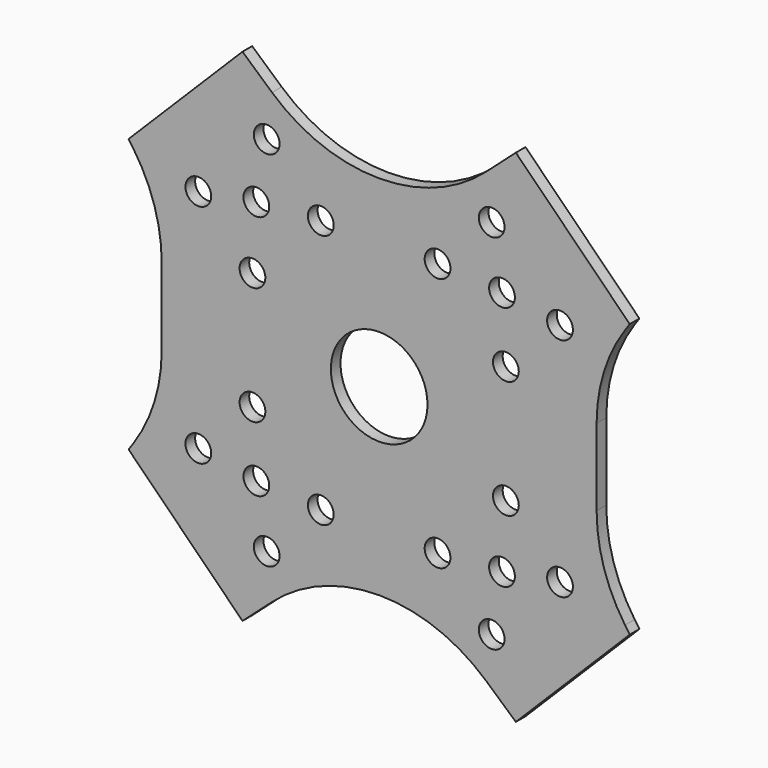
from build123d import *

# Parameters (mm, degrees)
F0_R     = 1.6
F0_R_2   = 6
F1_DEPTH = 1.5


with BuildPart() as f1:
    # F0 (on Front) → F1 (new body)
    with BuildSketch(Plane.XZ):
        with BuildLine():
            Line((31.112698, 16.970563), (16.970563, 31.112698))
            Line((16.970563, 31.112698), (13.300916, 27.844789))
            ThreePointArc((13.300916, 27.844789), (0, 22.78084), (-13.300916, 27.844789))
            Line((-13.300916, 27.844789), (-16.970563, 31.112698))
            Line((-16.970563, 31.112698), (-31.112698, 16.970563))
            Line((-31.112698, 16.970563), (-30.529389, 16.12375))
            ThreePointArc((-30.529389, 16.12375), (-27.90272, 10.719178), (-27, 4.778312))
            Line((-27, 4.778312), (-27, -4.778312))
            ThreePointArc((-27, -4.778312), (-27.90272, -10.719178), (-30.529389, -16.12375))
            Line((-30.529389, -16.12375), (-31.112698, -16.970563))
            Line((-31.112698, -16.970563), (-16.970563, -31.112698))
            Line((-16.970563, -31.112698), (-13.300916, -27.844789))
            ThreePointArc((-13.300916, -27.844789), (0, -22.78084), (13.300916, -27.844789))
            Line((13.300916, -27.844789), (16.970563, -31.112698))
            Line((16.970563, -31.112698), (31.112698, -16.970563))
            Line((31.112698, -16.970563), (30.529389, -16.12375))
            ThreePointArc((30.529389, -16.12375), (27.90272, -10.719178), (27, -4.778312))
            Line((27, -4.778312), (27, 4.778312))
            ThreePointArc((27, 4.778312), (27.90272, 10.719178), (30.529389, 16.12375))
            Line((30.529389, 16.12375), (31.112698, 16.970563))
        make_face()
        with Locations((-13.966, -22.524)):
            Circle(F0_R, mode=Mode.SUBTRACT)
        with Locations((-7.249, -15.807)):
            Circle(F0_R, mode=Mode.SUBTRACT)
        with Locations((-22.452, -14.039)):
            Circle(F0_R, mode=Mode.SUBTRACT)
        with Locations((-15.734, -7.322)):
            Circle(F0_R, mode=Mode.SUBTRACT)
        with Locations((-15.25, -15.25)):
            Circle(F0_R, mode=Mode.SUBTRACT)
        Circle(F0_R_2, mode=Mode.SUBTRACT)
        with Locations((7.249, -15.807)):
            Circle(F0_R, mode=Mode.SUBTRACT)
        with Locations((13.966, -22.524)):
            Circle(F0_R, mode=Mode.SUBTRACT)
        with Locations((15.25, -15.25)):
            Circle(F0_R, mode=Mode.SUBTRACT)
        with Locations((22.452, -14.039)):
            Circle(F0_R, mode=Mode.SUBTRACT)
        with Locations((15.734, -7.322)):
            Circle(F0_R, mode=Mode.SUBTRACT)
        with Locations((-15.734, 7.322)):
            Circle(F0_R, mode=Mode.SUBTRACT)
        with Locations((-22.452, 14.039)):
            Circle(F0_R, mode=Mode.SUBTRACT)
        with Locations((-15.25, 15.25)):
            Circle(F0_R, mode=Mode.SUBTRACT)
        with Locations((-13.966, 22.524)):
            Circle(F0_R, mode=Mode.SUBTRACT)
        with Locations((-7.249, 15.807)):
            Circle(F0_R, mode=Mode.SUBTRACT)
        with Locations((15.25, 15.25)):
            Circle(F0_R, mode=Mode.SUBTRACT)
        with Locations((15.734, 7.322)):
            Circle(F0_R, mode=Mode.SUBTRACT)
        with Locations((22.452, 14.039)):
            Circle(F0_R, mode=Mode.SUBTRACT)
        with Locations((7.249, 15.807)):
            Circle(F0_R, mode=Mode.SUBTRACT)
        with Locations((13.966, 22.524)):
            Circle(F0_R, mode=Mode.SUBTRACT)
    extrude(amount=F1_DEPTH)


solid = f1.part
